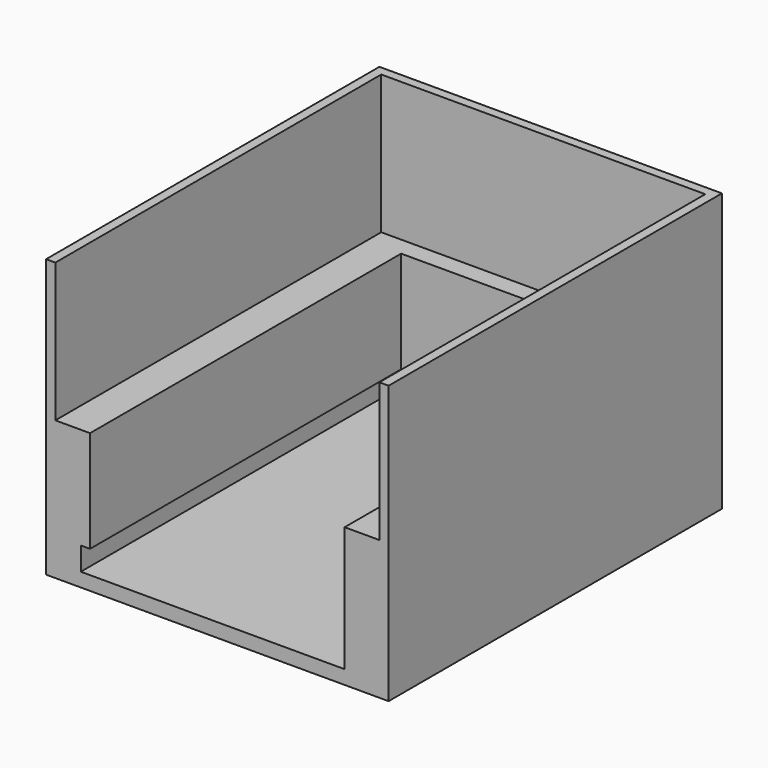
from build123d import *

# Parameters (mm, degrees)
F0_W     = 74
F0_H     = 90
F1_DEPTH = 60
F2_W     = 70
F2_H     = 88
F3_DEPTH = 30
F4_W     = 55
F4_H     = 84
F5_DEPTH = 27
F6_W     = 84
F6_H     = 5
F7_DEPTH = 2


with BuildPart() as f1:
    # F0 (on Top) → F1 (new body)
    with BuildSketch(Plane.XY):
        with Locations((37, -45)):
            Rectangle(F0_W, F0_H)
    extrude(amount=F1_DEPTH)

    # F2 (on face) → F3 (cut)
    with BuildSketch(Plane.XY.offset(60)):
        with Locations((37, -46)):
            Rectangle(F2_W, F2_H)
    extrude(amount=-F3_DEPTH, mode=Mode.SUBTRACT)

    # F4 (on face) → F5 (cut)
    with BuildSketch(Plane.XY.offset(30)):
        with Locations((37, -48)):
            Rectangle(F4_W, F4_H)
    extrude(amount=-F5_DEPTH, mode=Mode.SUBTRACT)

    # F6 (on face) → F7 (cut)
    with BuildSketch(Plane.YZ.offset(9.5)):
        with Locations((-48, 5.5)):
            Rectangle(F6_W, F6_H)
    extrude(amount=-F7_DEPTH, mode=Mode.SUBTRACT)


solid = f1.part
